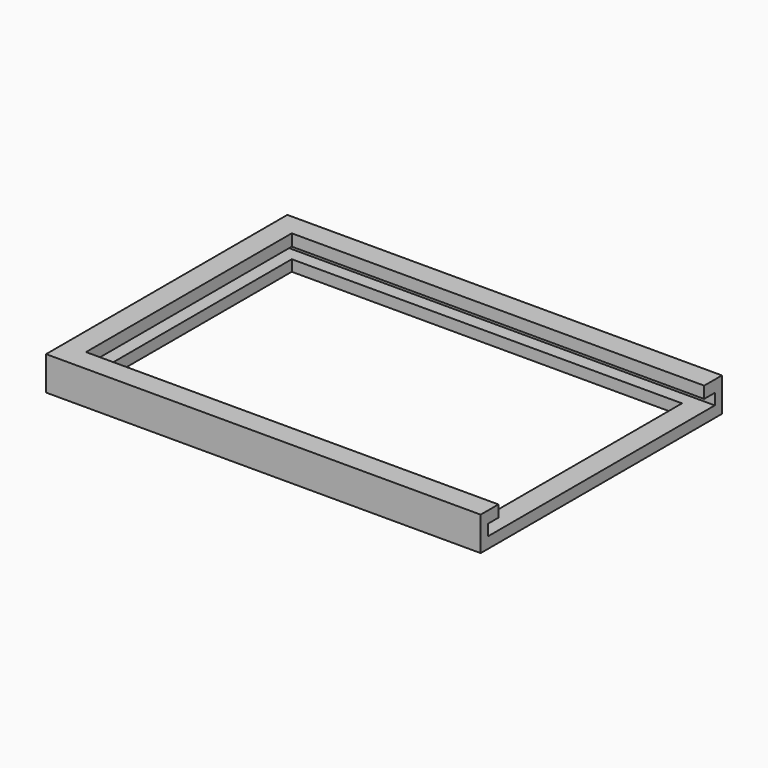
from build123d import *

# Parameters (mm, degrees)
F0_W     = 2.54
F0_H     = 3.81
F0_W_2   = 3.81
F0_H_2   = 73.66
F1_DEPTH = 3.175
F2_DEPTH = 9.7028
F3_START = 6.35
F3_DEPTH = 3.3528


with BuildPart() as f1:
    # F0 (on Top) → F1 (new body)
    with BuildSketch(Plane.XY):
        Polygon((-55.88, -36.83), (-55.88, 36.83), (55.88, 36.83), (59.69, 36.83), (59.69, 40.64), (-59.69, 40.64), (-59.69, -40.64), (59.69, -40.64), (59.69, -36.83), (55.88, -36.83), align=None)
        with Locations((60.96, 38.735)):
            Rectangle(F0_W, F0_H)
        with Locations((60.96, -38.735)):
            Rectangle(F0_W, F0_H)
        with Locations((57.785, 0)):
            Rectangle(F0_W_2, F0_H_2)
        with Locations((60.96, 0)):
            Rectangle(F0_W, F0_H_2)
    extrude(amount=F1_DEPTH)

    # F0 (on Top) → F2 (join)
    with BuildSketch(Plane.XY):
        Polygon((-59.69, 40.64), (59.69, 40.64), (62.23, 40.64), (62.23, 43.18), (-62.23, 43.18), (-62.23, -43.18), (62.23, -43.18), (62.23, -40.64), (59.69, -40.64), (-59.69, -40.64), align=None)
    extrude(amount=F2_DEPTH)

    # F0 (on Top) → F3 (join)
    with BuildSketch(Plane.XY.offset(F3_START)):
        Polygon((-55.88, -36.83), (-55.88, 36.83), (55.88, 36.83), (59.69, 36.83), (59.69, 40.64), (-59.69, 40.64), (-59.69, -40.64), (59.69, -40.64), (59.69, -36.83), (55.88, -36.83), align=None)
        with Locations((60.96, -38.735)):
            Rectangle(F0_W, F0_H)
        with Locations((60.96, 38.735)):
            Rectangle(F0_W, F0_H)
    extrude(amount=F3_DEPTH)


solid = f1.part
